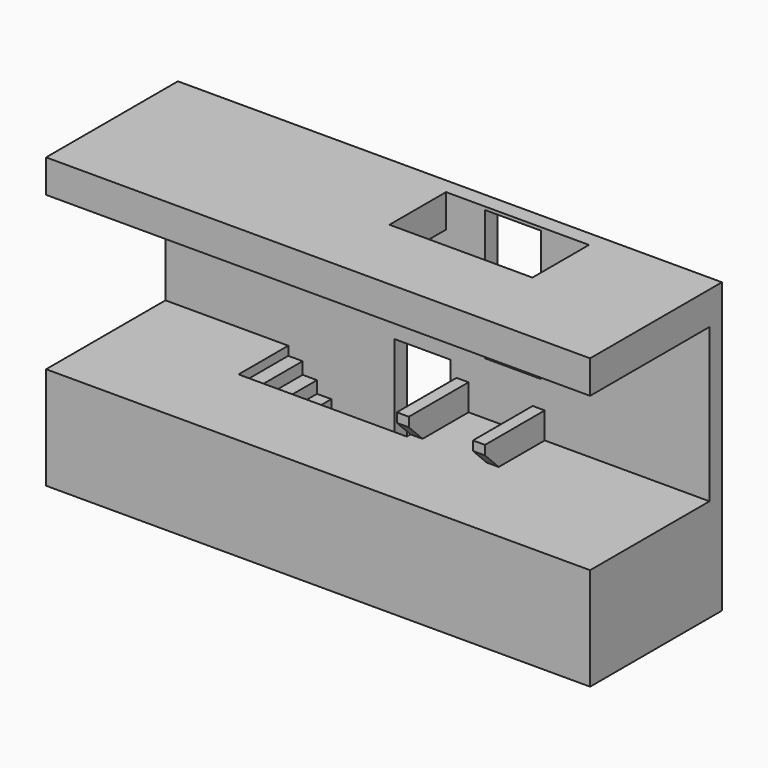
from build123d import *

# Parameters (mm, degrees)
F0_W      = 8890
F0_H      = 2438.4
F1_DEPTH  = 1676.4
F2_W      = 914.4
F2_H      = 2133.6
F3_DEPTH  = 254
F7_DEPTH  = 1441.45
F8_W      = 1047.75
F8_H      = 1219.2
F9_DEPTH  = 431.8
F11_DEPTH = 1016
F13_DEPTH = 539.75
F17_R     = 25.4
F19_W     = 914.4
F19_H     = 2133.6
F20_DEPTH = 254


with BuildPart() as f1:
    # F0 (on Top) → F1 (new body)
    with BuildSketch(Plane.XY):
        with Locations((-1689.1, -1219.2)):
            Rectangle(F0_W, F0_H)
    extrude(amount=-F1_DEPTH)

    # F2 (on face) → F3 (join)
    with BuildSketch(Plane(origin=(0, 0, 0), x_dir=(-1, 0, 0), z_dir=(0, 1, 0))):
        Polygon((6134.1, 0), (6134.1, 3048), (-2755.9, 3048), (-2755.9, 0), (-2755.9, -1676.4), (6134.1, -1676.4), align=None)
        with Locations((457.2, 1930.4)):
            Rectangle(F2_W, F2_H, mode=Mode.SUBTRACT)
    extrude(amount=F3_DEPTH)

    # F6 (on offset) → F7 (join, through all)
    with BuildSketch(Plane.YZ.offset(63.5)):
        Polygon((-939.8, 0), (0, 0), (0, 431.8), (-1219.2, 431.8), (-1219.2, 279.4), align=None)
    extrude(amount=-F7_DEPTH)

    # F8 (on face) → F9 (cut, through all)
    with BuildSketch(Plane.XY.offset(431.8)):
        with Locations((-657.225, -609.6)):
            Rectangle(F8_W, F8_H)
    extrude(amount=-F9_DEPTH, mode=Mode.SUBTRACT)

    # F10 (on face) → F11 (cut)
    with BuildSketch(Plane.XZ):
        Polygon((-1377.95, -1524), (-1377.95, 0), (-4127.5, 0), (-4127.5, -146.05), (-3892.55, -146.05), (-3892.55, -342.9), (-3657.6, -342.9), (-3657.6, -539.75), (-3422.65, -539.75), (-3422.65, -736.6), (-3187.7, -736.6), (-3187.7, -933.45), (-2952.75, -933.45), (-2952.75, -1130.3), (-2717.8, -1130.3), (-2717.8, -1327.15), (-2482.85, -1327.15), (-2482.85, -1524), align=None)
    extrude(amount=F11_DEPTH, mode=Mode.SUBTRACT)

    # F12 (on face) → F13 (join)
    with BuildSketch(Plane.XY.offset(3048)):
        Polygon((-1549.4, 0), (-6134.1, 0), (-6134.1, -2438.4), (2755.9, -2438.4), (2755.9, 0), (787.4, 0), (787.4, -1155.7), (-1549.4, -1155.7), align=None)
    extrude(amount=-F13_DEPTH)

    # F19 (on face) → F20 (cut, through all)
    with BuildSketch(Plane.XZ):
        with Locations((-1936.75, -406.4)):
            Rectangle(F19_W, F19_H)
    extrude(amount=-F20_DEPTH, mode=Mode.SUBTRACT)


with BuildPart() as f18:
    # F18: sweep along a path in F15
    with BuildLine(Plane.XZ.offset(76.2)) as f18_path:
        Line((254, 2032), (1143, 1311.3309500408))
    # F17 (on line) → F18 (sweep)
    with BuildSketch(Plane(origin=(48.2560568288, 0, -39.1188376035), x_dir=(0, 1, 0), z_dir=(0.7768163436, 0, -0.6297272174))):
        with Locations((-76.2, 1738.441523336)):
            Circle(F17_R)
    sweep(path=f18_path.line)


solid = Compound([f1.part, f18.part])
